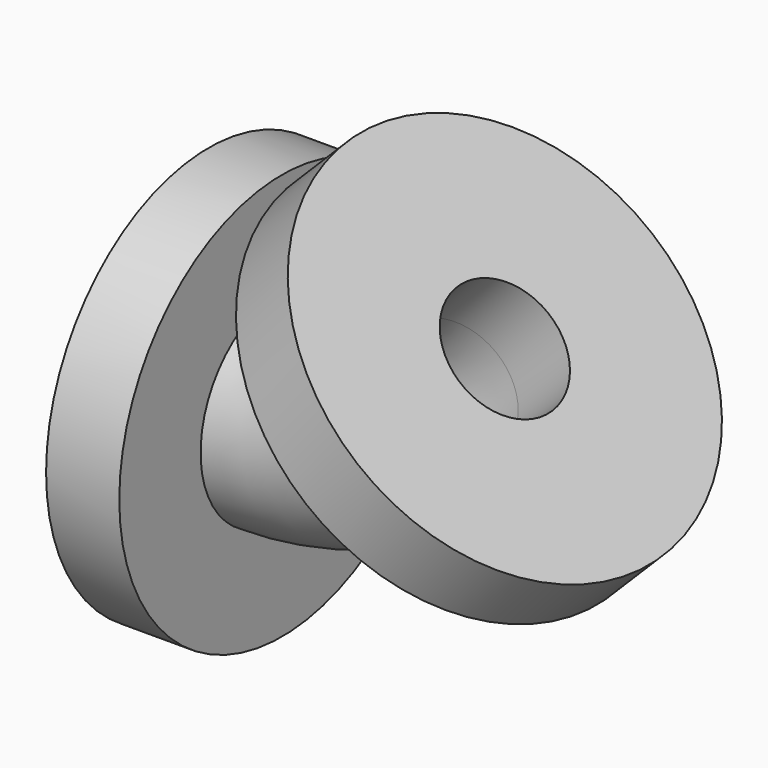
from build123d import *

# Parameters (mm, degrees)
F1_R     = 50
F1_R_2   = 25
F2_DEPTH = 18
F4_R     = 50
F4_R_2   = 25
F4_R_3   = 15
F5_DEPTH = 18


with BuildPart() as f2:
    # F1 (on Right) → F2 (new body)
    with BuildSketch(Plane.YZ):
        with Locations((0, -59.5)):
            Circle(F1_R)
        with Locations((0, -59.5)):
            Circle(F1_R_2, mode=Mode.SUBTRACT)
        with Locations((0, -59.5)):
            Circle(F1_R_2)
        with BuildLine():
            ThreePointArc((0, -44.5), (10.6066017178, -48.8933982822), (15, -59.5))
            ThreePointArc((15, -59.5), (-10.6066017178, -70.1066017178), (0, -44.5))
        make_face(mode=Mode.SUBTRACT)
    extrude(amount=-F2_DEPTH)

    # F3: sweep along a path in F0
    with BuildLine(Plane.XZ) as f3_path:
        ThreePointArc((0, -59.5), (22.7696642257, -54.9708321844), (42.0728534806, -42.0728534806))
    # F1 (on Right) → F3 (sweep)
    with BuildSketch(Plane.YZ):
        with Locations((0, -59.5)):
            Circle(F1_R_2)
        with BuildLine():
            ThreePointArc((0, -44.5), (10.6066017178, -48.8933982822), (15, -59.5))
            ThreePointArc((15, -59.5), (-10.6066017178, -70.1066017178), (0, -44.5))
        make_face(mode=Mode.SUBTRACT)
    sweep(path=f3_path.line)

    # F4 (on face) → F5 (join)
    with BuildSketch(Plane(origin=(0, 0, 0), x_dir=(0, 1, 0), z_dir=(0.7071067812, 0, 0.7071067812))):
        with Locations((0, -59.5)):
            Circle(F4_R)
        with Locations((0, -59.5)):
            Circle(F4_R_2, mode=Mode.SUBTRACT)
        with Locations((0, -59.5)):
            Circle(F4_R_2)
        with Locations((0, -59.5)):
            Circle(F4_R_3, mode=Mode.SUBTRACT)
    extrude(amount=F5_DEPTH)


solid = f2.part
